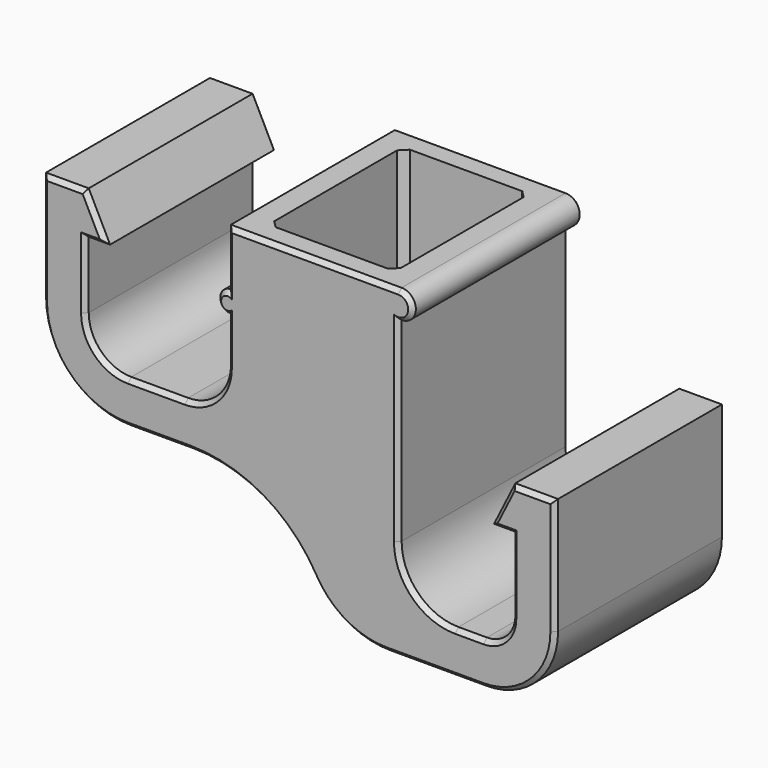
from build123d import *

# Parameters (mm, degrees)
F1_DEPTH = 15
F2_W     = 8.9
F2_H     = 11.8
F3_DEPTH = 25
F4_SIZE  = 0.3
F5_SIZE  = 0.5


with BuildPart() as f1:
    # F0 (on Front) → F1 (new body)
    with BuildSketch(Plane.XZ):
        with BuildLine():
            Line((6, 1), (-6, 1))
            Line((-6, 1), (-6, -3))
            ThreePointArc((-6, -3), (-6.75, -3.75), (-6, -4.5))
            Line((-6, -4.5), (-6, -5.7))
            Line((-6, -5.7), (-6, -7.7))
            ThreePointArc((-6, -7.7), (-6.8786796564, -9.8213203436), (-9, -10.7))
            Line((-9, -10.7), (-13, -10.7))
            ThreePointArc((-13, -10.7), (-15.1213203436, -9.8213203436), (-16, -7.7))
            Line((-16, -7.7), (-16, -5.7))
            Line((-16, -5.7), (-16, -3))
            Line((-16, -3), (-14.5, -3))
            Line((-14.5, -3), (-16, 0))
            Line((-16, 0), (-19, 0))
            Line((-19, 0), (-19, -7.7))
            ThreePointArc((-19, -7.7), (-17.2426406871, -11.9426406871), (-13, -13.7))
            Line((-13, -13.7), (-8.6602540378, -13.7))
            ThreePointArc((-8.6602540378, -13.7), (-3.6602540378, -15.0397459622), (0, -18.7))
            ThreePointArc((0, -18.7), (2.1961524227, -20.8961524227), (5.1961524227, -21.7))
            Line((5.1961524227, -21.7), (12, -21.7))
            ThreePointArc((12, -21.7), (15.5355339059, -20.2355339059), (17, -16.7))
            Line((17, -16.7), (17, -8.5))
            Line((17, -8.5), (14, -8.5))
            Line((14, -8.5), (12.5, -11.5))
            Line((12.5, -11.5), (14, -11.5))
            Line((14, -11.5), (14, -14.7))
            Line((14, -14.7), (14, -16.7))
            ThreePointArc((14, -16.7), (13.4142135624, -18.1142135624), (12, -18.7))
            Line((12, -18.7), (10, -18.7))
            ThreePointArc((10, -18.7), (7.1715728753, -17.5284271247), (6, -14.7))
            Line((6, -14.7), (6, -1))
            ThreePointArc((6, -1), (7, 0), (6, 1))
        make_face()
    extrude(amount=F1_DEPTH)

    # F2 (on face) → F3 (cut)
    with BuildSketch(Plane.XY.offset(1)):
        with Locations((0.05, -7.5)):
            Rectangle(F2_W, F2_H)
    extrude(amount=-F3_DEPTH, mode=Mode.SUBTRACT)

    # F4
    f4_edges = [f1.edges().sort_by_distance(p)[0] for p in [
        (11, -15, -18.7),
        (7.171573, -15, -17.528427),
        (6, -15, -7.85),
        (7, -15, 0),
        (0, -15, 1),
        (-6, -15, -1),
        (-6.75, -15, -3.75),
        (-6, -15, -6.1),
        (-6.87868, -15, -9.82132),
        (-11, -15, -10.7),
        (-15.12132, -15, -9.82132),
        (-16, -15, -5.35),
        (-15.25, -15, -3),
        (-15.25, -15, -1.5),
        (-17.5, -15, 0),
        (-19, -15, -3.85),
        (-17.242641, -15, -11.942641),
        (-10.830127, -15, -13.7),
        (-3.660254, -15, -15.039746),
        (2.196152, -15, -20.896152),
        (8.598076, -15, -21.7),
        (15.535534, -15, -20.235534),
        (17, -15, -12.6),
        (15.5, -15, -8.5),
        (13.25, -15, -10),
        (13.25, -15, -11.5),
        (14, -15, -14.1),
        (13.414214, -15, -18.114214),
        (11, 0, -18.7),
        (7.171573, 0, -17.528427),
        (6, 0, -7.85),
        (7, 0, 0),
        (0, 0, 1),
        (-6, 0, -1),
        (-6.75, 0, -3.75),
        (-6, 0, -6.1),
        (-6.87868, 0, -9.82132),
        (-11, 0, -10.7),
        (-15.12132, 0, -9.82132),
        (-16, 0, -5.35),
        (-15.25, 0, -3),
        (-15.25, 0, -1.5),
        (-17.5, 0, 0),
        (-19, 0, -3.85),
        (-17.242641, 0, -11.942641),
        (-10.830127, 0, -13.7),
        (-3.660254, 0, -15.039746),
        (2.196152, 0, -20.896152),
        (8.598076, 0, -21.7),
        (15.535534, 0, -20.235534),
        (17, 0, -12.6),
        (15.5, 0, -8.5),
        (13.25, 0, -10),
        (13.25, 0, -11.5),
        (14, 0, -14.1),
        (13.414214, 0, -18.114214),
    ]]
    chamfer(f4_edges, length=F4_SIZE)

    # F5
    f5_edges = [f1.edges().sort_by_distance(p)[0] for p in [
        (-4.4, -13.4, -6.826444),
        (4.5, -13.4, -10.329739),
        (4.5, -1.6, -10.329739),
        (-4.4, -1.6, -6.826444),
    ]]
    chamfer(f5_edges, length=F5_SIZE)


solid = f1.part
